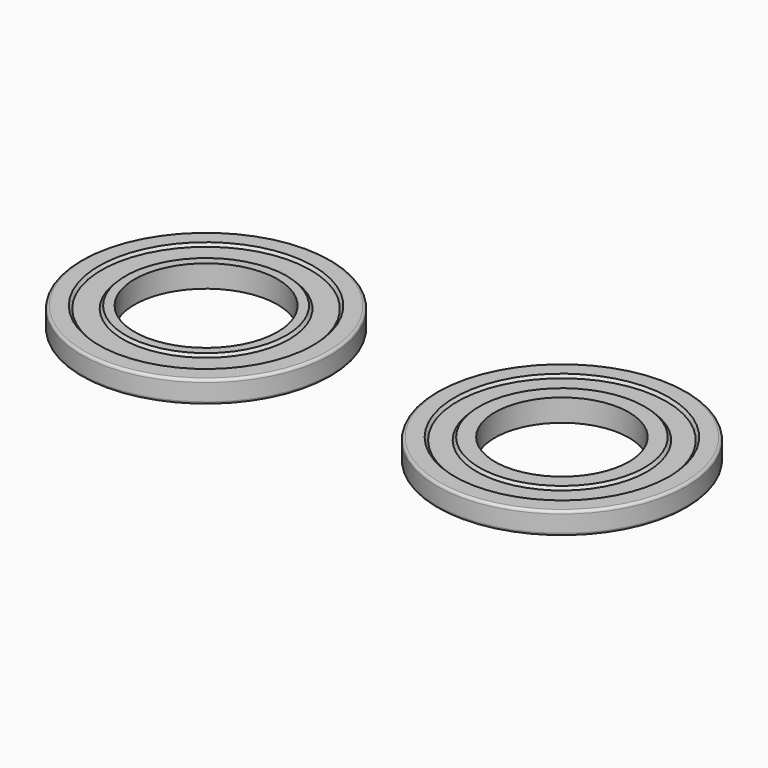
from build123d import *

# Parameters (mm, degrees)
F0_R     = 14
F0_R_2   = 8
F1_DEPTH = 2.5
F2_R     = 12
F2_R_2   = 9
F3_DEPTH = 0.3
F3_TAPER = 45
F4_R     = 0.3
F5_R     = 14
F5_R_2   = 7.5
F6_DEPTH = 2.5
F7_R     = 12
F7_R_2   = 9.25
F8_DEPTH = 0.3
F8_TAPER = 45
F9_R     = 0.3


with BuildPart() as f1:
    # F0 (on Top) → F1 (new body)
    with BuildSketch(Plane.XY):
        Circle(F0_R)
        Circle(F0_R_2, mode=Mode.SUBTRACT)
    extrude(amount=F1_DEPTH)

    # F2 (on face) → F3 (cut)
    with BuildSketch(Plane.XY.offset(2.5)):
        Circle(F2_R)
        Circle(F2_R_2, mode=Mode.SUBTRACT)
    extrude(amount=-F3_DEPTH, taper=F3_TAPER, mode=Mode.SUBTRACT)

    # F4
    f4_edges = [f1.edges().sort_by_distance(p)[0] for p in [
        (-14, 0, 2.5),
        (-14, 0, 0),
    ]]
    fillet(f4_edges, radius=F4_R)


with BuildPart() as f6:
    # F5 (on Top) → F6 (new body)
    with BuildSketch(Plane.XY):
        with Locations((39.8241467774, 0)):
            Circle(F5_R)
        with Locations((39.8241467774, 0)):
            Circle(F5_R_2, mode=Mode.SUBTRACT)
    extrude(amount=F6_DEPTH)

    # F7 (on face) → F8 (cut)
    with BuildSketch(Plane.XY.offset(2.5)):
        with Locations((39.8241467774, 0)):
            Circle(F7_R)
        with Locations((39.8241467774, 0)):
            Circle(F7_R_2, mode=Mode.SUBTRACT)
    extrude(amount=-F8_DEPTH, taper=F8_TAPER, mode=Mode.SUBTRACT)

    # F9
    f9_edges = [f6.edges().sort_by_distance(p)[0] for p in [
        (25.824147, 0, 2.5),
        (25.824147, 0, 0),
    ]]
    fillet(f9_edges, radius=F9_R)


solid = Compound([f1.part, f6.part])
